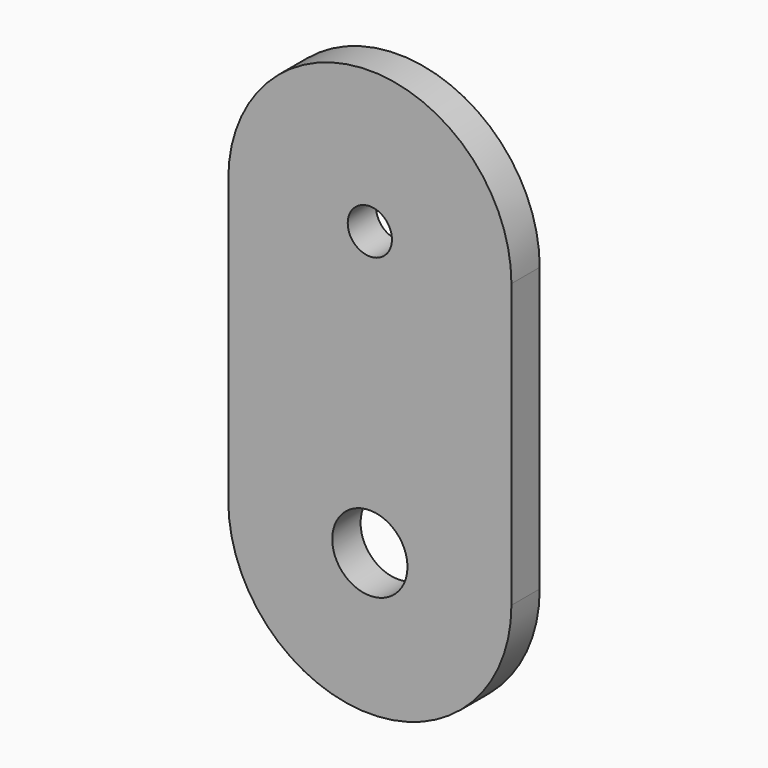
from build123d import *

# Parameters (mm, degrees)
F1_DEPTH = 6.35
F3_D     = 7.9375
F5_D     = 13.49248


with BuildPart() as f1:
    # F0 (on Front) → F1 (new body)
    with BuildSketch(Plane.XZ):
        with BuildLine():
            Line((-25.4, 50.8), (-25.4, 0))
            ThreePointArc((-25.4, 0), (0, -25.4), (25.4, 0))
            Line((25.4, 0), (25.4, 50.8))
            ThreePointArc((25.4, 50.8), (0, 76.2), (-25.4, 50.8))
        make_face()
    extrude(amount=F1_DEPTH)

    # F3 (through all)
    with Locations(Plane.XZ.offset(6.35)):
        with Locations((0, 50.8)):
            Hole(F3_D / 2)

    # F5 (through all)
    with Locations(Plane.XZ.offset(6.35)):
        with Locations((0, 0)):
            Hole(F5_D / 2)


solid = f1.part
